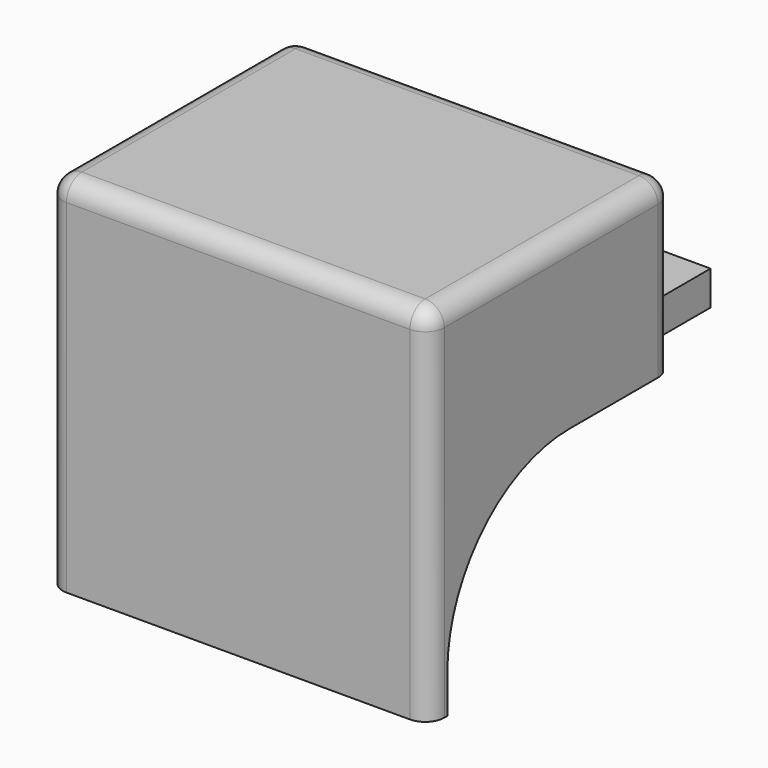
from build123d import *

# Parameters (mm, degrees)
SKETCH_W        = 10
SKETCH_H        = 8
PAD_DEPTH       = 2
PAD_DEPTH_BACK  = 7.5
SKETCH001_W     = 9.2
SKETCH001_H     = 7
POCKET_DEPTH    = 8
POCKET001_DEPTH = 5
SKETCH003_W     = 3
SKETCH003_H     = 1
PAD001_DEPTH    = 0.6
FILLET_R        = 0.5
FILLET001_R     = 4
FILLET002_R     = 0.4
FILLET003_R     = 0.5
SKETCH004_W     = 1.8
SKETCH004_H     = 0.9
PAD002_DEPTH    = 2.6
FILLET004_R     = 0.15


with BuildPart() as part:
    # Sketch (on DatumPlane) → Pad (new body, two sides)
    with BuildSketch(Plane.XY.offset(10)) as pad_sk:
        with Locations((0, -1.1)):
            Rectangle(SKETCH_W, SKETCH_H)
    extrude(amount=PAD_DEPTH)
    extrude(pad_sk.sketch, amount=-PAD_DEPTH_BACK)

    # Sketch001 (on Face5 of Pad) → Pocket (cut)
    with BuildSketch(Plane(origin=(0, 0, 2.5), x_dir=(1, 0, 0), z_dir=(0, 0, -1))):
        with Locations((0, 1)):
            Rectangle(SKETCH001_W, SKETCH001_H)
    extrude(amount=-POCKET_DEPTH, mode=Mode.SUBTRACT)

    # Sketch002 (on Face4 of Pocket) → Pocket001 (cut)
    with BuildSketch(Plane(origin=(0, 0, 2.5), x_dir=(1, 0, 0), z_dir=(0, 0, -1))):
        Polygon((-4.6, 4.5), (-5, 4.5), (-5, -2.9), (5, -2.9), (5, 4.5), (4.6, 4.5), (4.6, -2.5), (-4.6, -2.5), align=None)
    extrude(amount=-POCKET001_DEPTH, mode=Mode.SUBTRACT)

    # Sketch003 (on Face13 of Pocket001) → Pad001 (join)
    with BuildSketch(Plane(origin=(0, -4.5, 10), x_dir=(-1, 0, 0), z_dir=(0, 1, 0))):
        with Locations((0, -7)):
            Rectangle(SKETCH003_W, SKETCH003_H)
    extrude(amount=PAD001_DEPTH)

    # Fillet
    fillet_edges = [part.edges().sort_by_distance(p)[0] for p in [
        (0, -4.5, 3.5),
        (-1.5, -4.5, 3),
        (1.5, -4.5, 3),
    ]]
    fillet(fillet_edges, radius=FILLET_R)

    # Fillet001
    fillet001_edges = [part.edges().sort_by_distance(p)[0] for p in [
        (-4.8, -4.5, 7.5),
        (4.8, -4.5, 7.5),
    ]]
    fillet(fillet001_edges, radius=FILLET001_R)

    # Fillet002
    fillet002_edges = [part.edges().sort_by_distance(p)[0] for p in [
        (4.6, -4.5, 9),
        (4.6, -4.5, 5.5),
        (0, -4.5, 10.5),
        (4.6, -1, 10.5),
        (-4.6, -1, 10.5),
        (4.6, 2.5, 9),
        (0, 2.5, 10.5),
        (-4.6, 2.5, 9),
        (-4.6, -4.5, 9),
    ]]
    fillet(fillet002_edges, radius=FILLET002_R)

    # Fillet003
    fillet003_edges = [part.edges().sort_by_distance(p)[0] for p in [
        (5, -1.1, 12),
        (5, -5.1, 7.25),
        (5, 2.9, 9.75),
        (0, 2.9, 12),
        (0, -5.1, 12),
        (-5, -1.1, 12),
        (-5, 2.9, 9.75),
        (-5, -5.1, 7.25),
    ]]
    fillet(fillet003_edges, radius=FILLET003_R)

    # Sketch004 (on Face5 of Fillet003) → Pad002 (join)
    with BuildSketch(Plane(origin=(0, 2.9, 10), x_dir=(-1, 0, 0), z_dir=(0, 1, 0))):
        with Locations((-3, -2.05)):
            Rectangle(SKETCH004_W, SKETCH004_H)
    pad002 = extrude(amount=PAD002_DEPTH)

    # Mirrored: Pad002 across Sketch004 V_Axis
    add(pad002.mirror(Plane(origin=(0, 2.9, 10), x_dir=(0, 1, 0), z_dir=(-1, 0, 0))))

    # Fillet004
    fillet004_edges = [part.edges().sort_by_distance(p)[0] for p in [
        (-3.9, 2.9, 7.95),
        (-4.4, -4.5, 3.5),
        (-3, 2.9, 8.4),
        (-4.462793, -4.401563, 4.381935),
        (2.1, 2.9, 7.95),
        (3, 2.9, 8.4),
        (-2.1, 2.9, 7.95),
        (3.9, 2.9, 7.95),
    ]]
    fillet(fillet004_edges, radius=FILLET004_R)


solid = part.part
